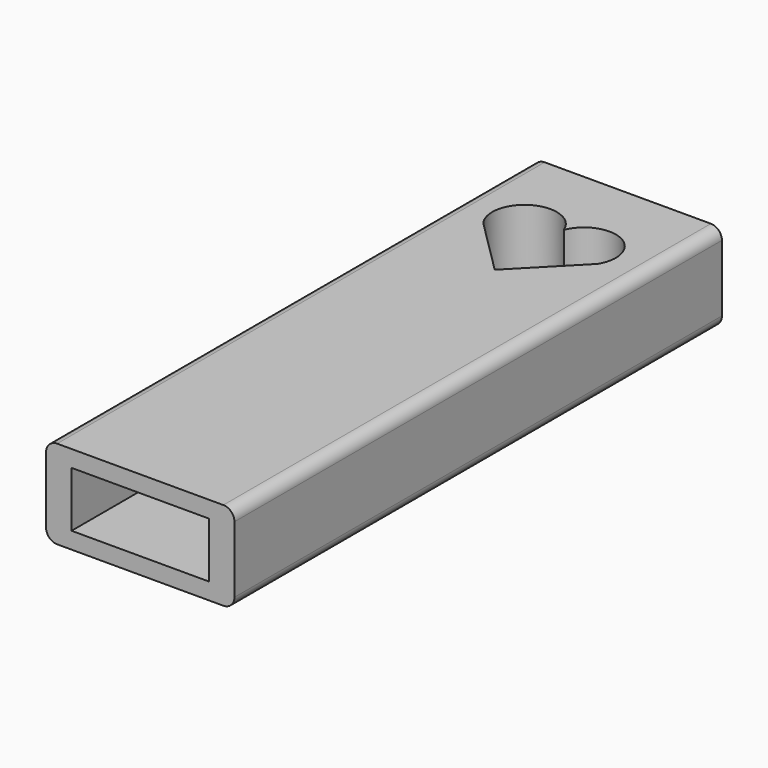
from build123d import *

# Parameters (mm, degrees)
F0_W     = 17
F0_H     = 8
F1_DEPTH = 55
F2_R     = 1
F3_W     = 12.4
F3_H     = 5
F4_DEPTH = 14
F6_DEPTH = 25


with BuildPart() as f1:
    # F0 (on Front) → F1 (new body)
    with BuildSketch(Plane.XZ):
        Rectangle(F0_W, F0_H)
    extrude(amount=F1_DEPTH)

    # F2
    f2_edges = [f1.edges().sort_by_distance(p)[0] for p in [
        (-8.5, -27.5, 4),
        (-8.5, -27.5, -4),
        (8.5, -27.5, -4),
        (8.5, -27.5, 4),
    ]]
    fillet(f2_edges, radius=F2_R)

    # F3 (on face) → F4 (cut)
    with BuildSketch(Plane.XZ.offset(55)):
        Rectangle(F3_W, F3_H)
    extrude(amount=-F4_DEPTH, mode=Mode.SUBTRACT)

    # F5 (on face) → F6 (cut)
    with BuildSketch(Plane.XY.offset(4)):
        with BuildLine():
            ThreePointArc((5.091245, -9.798271), (3.965953, -5.706329), (0, -7.216787))
            ThreePointArc((0, -7.216787), (-4.103388, -5.665551), (-5.093883, -9.939079))
            Line((-5.093883, -9.939079), (0, -15.008175))
            Line((0, -15.008175), (5.091245, -9.798271))
        make_face()
    extrude(amount=-F6_DEPTH, mode=Mode.SUBTRACT)


solid = f1.part
